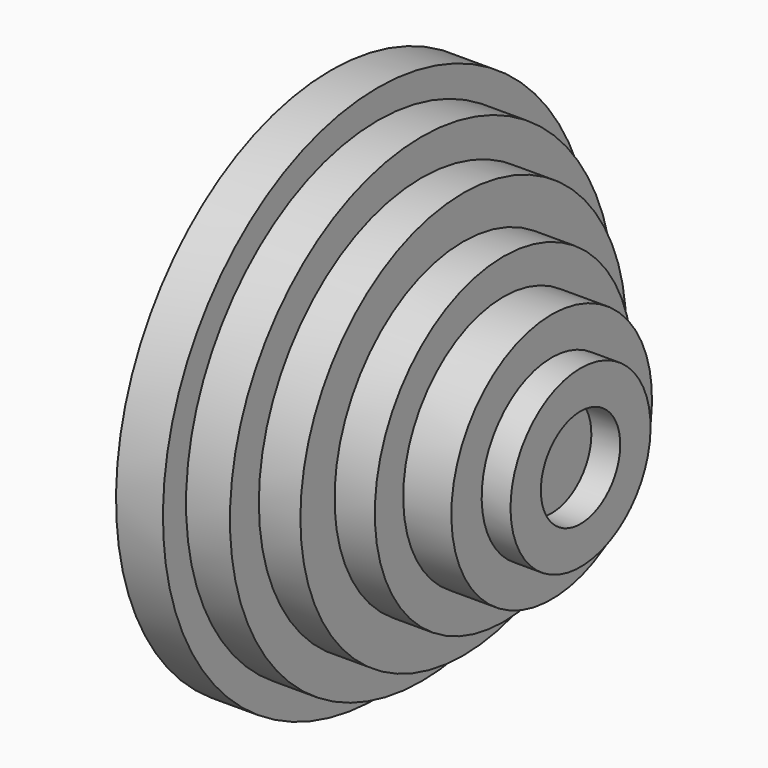
from build123d import *

# Parameters (mm, degrees)
F0_W = 6.240472
F0_H = 8.190617


with BuildPart() as f1:
    # F0 (on Front) → F1 (revolve)
    with BuildSketch(Plane.XZ):
        Polygon((-28.612807, 58.043268), (-28.612807, 10.719694), (-18.472038, 10.719694), (-18.472038, 51.802795), (-18.472038, 58.043268), align=None)
        Polygon((-18.472038, 51.802795), (-18.472038, 10.719694), (-8.981317, 10.719694), (-8.981317, 44.002209), (-8.981317, 51.802795), align=None)
        Polygon((-8.981317, 44.002209), (-8.981317, 10.719694), (0, 10.719694), (0, 34.771509), (0, 44.002209), align=None)
        Polygon((0, 34.771509), (0, 10.719694), (8.700013, 10.719694), (8.700013, 27.100928), (8.700013, 34.771509), align=None)
        Polygon((8.700013, 27.100928), (8.700013, 10.719694), (19.1008, 10.719694), (19.1008, 18.910311), (19.1008, 27.100928), align=None)
        with Locations((22.221036, 14.815002)):
            Rectangle(F0_W, F0_H)
    revolve(axis=Axis((1.939505, 0, 0), (1, 0, 0)))


solid = f1.part
